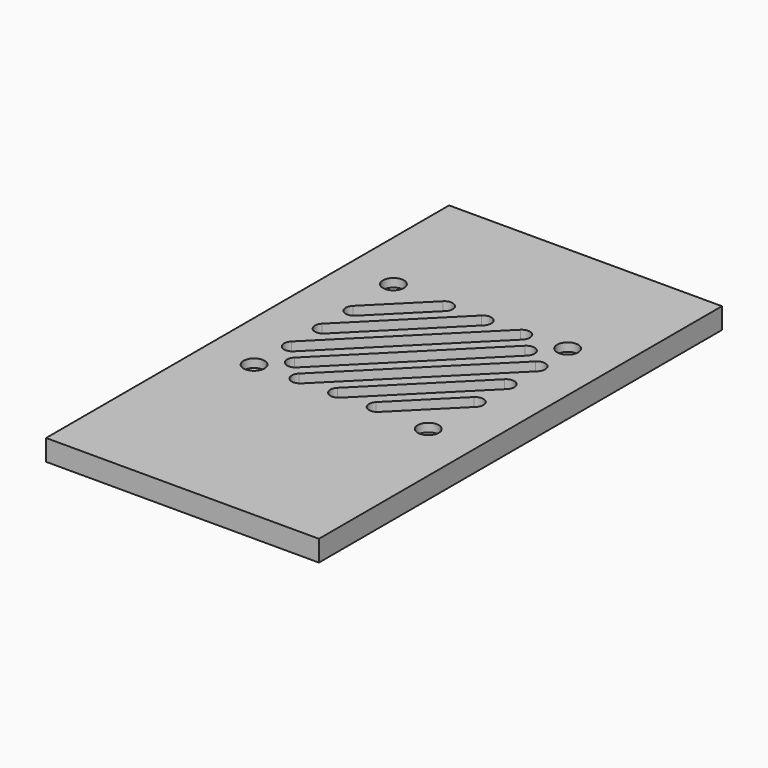
from build123d import *

# Parameters (mm, degrees)
SKETCH008_W          = 130
SKETCH008_H          = 240
PAD005_DEPTH         = 10
SKETCH009_R          = 2
POCKET003_DEPTH      = 10.001
POCKET003_DEPTH_BACK = 0.001
SKETCH010_R          = 5
POCKET004_DEPTH      = 4
POCKET005_DEPTH      = 10.001
POCKET005_DEPTH_BACK = 0.001


with BuildPart() as part:
    # Sketch008 → Pad005 (new body)
    with BuildSketch(Plane.XY):
        Rectangle(SKETCH008_W, SKETCH008_H)
    extrude(amount=PAD005_DEPTH)

    # Sketch009 (on Face5 of Pad005) → Pocket003 (cut, two sides)
    with BuildSketch(Plane(origin=(0, 0, 0), x_dir=(1, 0, 0), z_dir=(0, 0, -1))) as pocket003_sk:
        with Locations((-41.5, -57.5)):
            Circle(SKETCH009_R)
        with Locations((-41.5, 25.5)):
            Circle(SKETCH009_R)
        with Locations((41.5, 25.5)):
            Circle(SKETCH009_R)
        with Locations((41.5, -57.5)):
            Circle(SKETCH009_R)
    extrude(amount=-POCKET003_DEPTH, mode=Mode.SUBTRACT)
    extrude(pocket003_sk.sketch, amount=POCKET003_DEPTH_BACK, mode=Mode.SUBTRACT)

    # Sketch010 (on Face5 of Pocket003) → Pocket004 (cut)
    with BuildSketch(Plane.XY.offset(10)):
        with Locations((-41.5, 57.5)):
            Circle(SKETCH010_R)
        with Locations((41.5, 57.5)):
            Circle(SKETCH010_R)
        with Locations((-41.5, -25.5)):
            Circle(SKETCH010_R)
        with Locations((41.5, -25.5)):
            Circle(SKETCH010_R)
    extrude(amount=-POCKET004_DEPTH, mode=Mode.SUBTRACT)

    # Sketch011 (on Face5 of Pocket004) → Pocket005 (cut, two sides)
    with BuildSketch(Plane.XY.offset(10)) as pocket005_sk:
        with BuildLine():
            ThreePointArc((-33.328427, -11.671573), (-33.328427, -17.328427), (-27.671573, -17.328427))
            Line((-27.671573, -17.328427), (33.328427, 43.671573))
            ThreePointArc((33.328427, 43.671573), (33.328427, 49.328427), (27.671573, 49.328427))
            Line((27.671573, 49.328427), (-33.328427, -11.671573))
        make_face()
        with BuildLine():
            ThreePointArc((-42.328427, -2.286797), (-42.328427, -7.943651), (-36.671573, -7.943651))
            Line((-36.671573, -7.943651), (23.943651, 52.671573))
            ThreePointArc((23.943651, 52.671573), (23.943651, 58.328427), (18.286797, 58.328427))
            Line((18.286797, 58.328427), (-42.328427, -2.286797))
        make_face()
        with BuildLine():
            ThreePointArc((-42.328427, 16.09798), (-42.328427, 10.441125), (-36.671573, 10.441125))
            Line((-36.671573, 10.441125), (5.558875, 52.671573))
            ThreePointArc((5.558875, 52.671573), (5.558875, 58.328427), (-0.09798, 58.328427))
            Line((-0.09798, 58.328427), (-42.328427, 16.09798))
        make_face()
        with BuildLine():
            ThreePointArc((-42.328427, 34.482756), (-42.328427, 28.825902), (-36.671573, 28.825902))
            Line((-36.671573, 28.825902), (-12.825902, 52.671573))
            ThreePointArc((-12.825902, 52.671573), (-12.825902, 58.328427), (-18.482756, 58.328427))
            Line((-18.482756, 58.328427), (-42.328427, 34.482756))
        make_face()
        with BuildLine():
            ThreePointArc((-23.943651, -20.671573), (-23.943651, -26.328427), (-18.286797, -26.328427))
            Line((-18.286797, -26.328427), (44.328427, 36.286797))
            ThreePointArc((44.328427, 36.286797), (44.328427, 41.943651), (38.671573, 41.943651))
            Line((38.671573, 41.943651), (-23.943651, -20.671573))
        make_face()
        with BuildLine():
            ThreePointArc((-5.558875, -20.671573), (-5.558875, -26.328427), (0.09798, -26.328427))
            Line((0.09798, -26.328427), (44.328427, 17.90202))
            ThreePointArc((44.328427, 17.90202), (44.328427, 23.558875), (38.671573, 23.558875))
            Line((38.671573, 23.558875), (-5.558875, -20.671573))
        make_face()
        with BuildLine():
            ThreePointArc((12.825902, -20.671573), (12.825902, -26.328427), (18.482756, -26.328427))
            Line((18.482756, -26.328427), (44.328427, -0.482756))
            ThreePointArc((44.328427, -0.482756), (44.328427, 5.174098), (38.671573, 5.174098))
            Line((38.671573, 5.174098), (12.825902, -20.671573))
        make_face()
    extrude(amount=-POCKET005_DEPTH, mode=Mode.SUBTRACT)
    extrude(pocket005_sk.sketch, amount=POCKET005_DEPTH_BACK, mode=Mode.SUBTRACT)


solid = part.part
